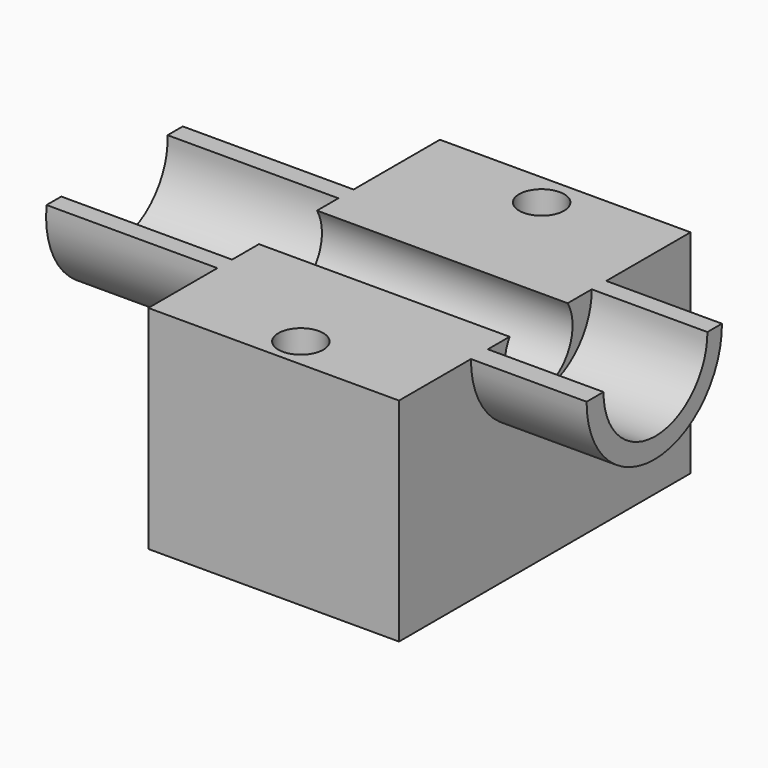
from build123d import *

# Parameters (mm, degrees)
F0_W     = 60.007502
F0_H     = 87.23982
F0_R     = 5.379351
F1_DEPTH = 50.8
F3_DEPTH = 40.894
F5_DEPTH = 27.686
F6_D     = 20.32


with BuildPart() as f1:
    # F0 (on Top) → F1 (new body)
    with BuildSketch(Plane.XY):
        with Locations((-0.722982, -9.519262)):
            Rectangle(F0_W, F0_H)
        with Locations((0, -45.909356)):
            Circle(F0_R, mode=Mode.SUBTRACT)
        with Locations((0, 26.147846)):
            Circle(F0_R, mode=Mode.SUBTRACT)
    extrude(amount=F1_DEPTH)

    # F2 (on face) → F3 (join)
    with BuildSketch(Plane(origin=(-30.726733, 0, 0), x_dir=(0, -1, 0), z_dir=(-1, 0, 0))):
        with BuildLine():
            ThreePointArc((28.075797, 50.8), (12.170195, 34.093327), (-3.735408, 50.8))
            Line((-3.735408, 50.8), (-8.281821, 50.8))
            ThreePointArc((-8.281821, 50.8), (12.098354, 27.846321), (32.47853, 50.8))
            Line((32.47853, 50.8), (28.075797, 50.8))
        make_face()
    extrude(amount=F3_DEPTH)

    # F4 (on face) → F5 (join)
    with BuildSketch(Plane.YZ.offset(29.280769)):
        with BuildLine():
            Line((-26.553022, 50.8), (-31.606492, 50.8))
            ThreePointArc((-31.606492, 50.8), (-11.361636, 30.385585), (8.88322, 50.8))
            Line((8.88322, 50.8), (4.536318, 50.8))
            ThreePointArc((4.536318, 50.8), (-11.008352, 35.169395), (-26.553022, 50.8))
        make_face()
    extrude(amount=F5_DEPTH)

    # F6 (through all)
    with Locations(Plane.YZ.offset(29.280769)):
        with Locations((-11.356696, 45.533322)):
            Hole(F6_D / 2)


solid = f1.part
